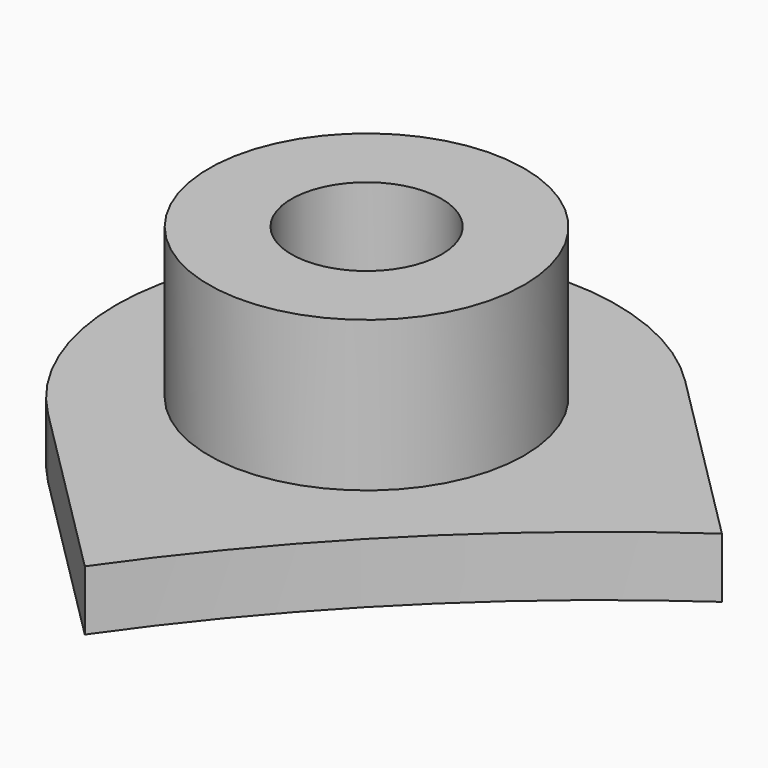
from build123d import *

# Parameters (mm, degrees)
PAD_DEPTH       = 1.2
SKETCH001_R     = 3.15
PAD001_DEPTH    = 3
SKETCH002_R     = 0.8
POCKET_DEPTH    = 4.201
SKETCH003_R     = 1.5
POCKET001_DEPTH = 5


with BuildPart() as part:
    # Sketch → Pad (new body)
    with BuildSketch(Plane.XY):
        with BuildLine():
            ThreePointArc((-19.975767, 27.046834), (-27.046834, 27.046834), (-27.046834, 19.975767))
            Line((-23.375519, 16.304451), (-27.046834, 19.975767))
            ThreePointArc((-16.304451, 23.375519), (-20.152543, 20.152543), (-23.375519, 16.304451))
            Line((-19.975767, 27.046834), (-16.304451, 23.375519))
        make_face()
    extrude(amount=PAD_DEPTH)

    # Sketch001 → Pad001 (new body)
    with BuildSketch(Plane.XY.offset(1.2)):
        with Locations((-23.5113, 23.5113)):
            Circle(SKETCH001_R)
    extrude(amount=PAD001_DEPTH)

    # Sketch002 → Pocket (cut, through all)
    with BuildSketch(Plane.XY.offset(4.2)):
        with Locations((-23.5113, 23.5113)):
            Circle(SKETCH002_R)
    extrude(amount=-POCKET_DEPTH, mode=Mode.SUBTRACT)

    # Sketch003 → Pocket001 (cut)
    with BuildSketch(Plane.XY.offset(4.2)):
        with Locations((-23.5113, 23.5113)):
            Circle(SKETCH003_R)
    extrude(amount=-POCKET001_DEPTH, mode=Mode.SUBTRACT)


solid = part.part
